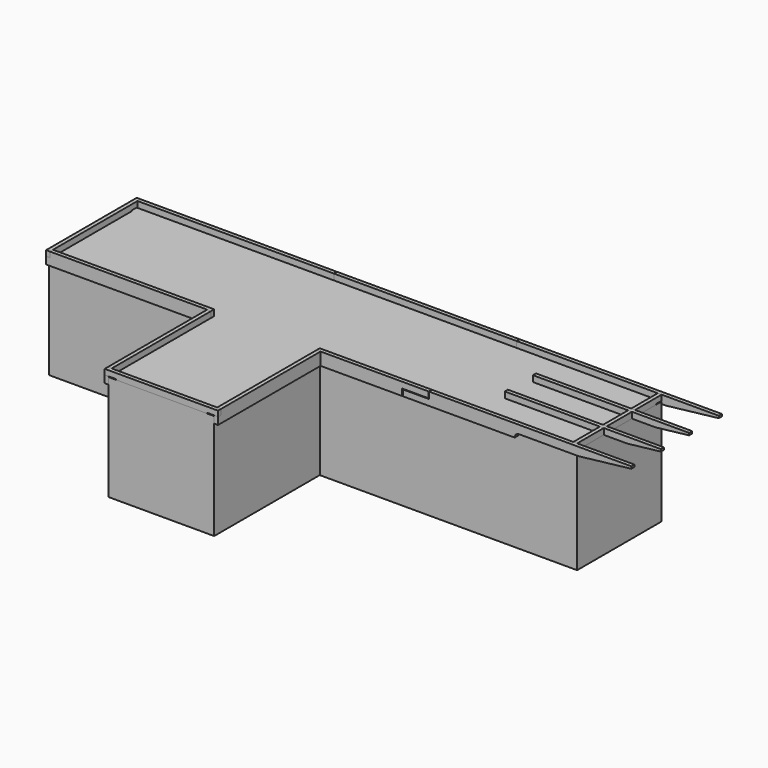
from build123d import *

# Parameters (mm, degrees)
F0_W       = 2438.4
F0_H       = 3048
F1_DEPTH   = 2438.4
F2_W       = 1066.8
F2_H       = 139.7
F3_DEPTH   = 88.9
F2_W_2     = 2590.8
F2_W_3     = 1625.6
F4_DEPTH   = 88.9
F5_DEPTH   = 88.9
F6_W       = 2590.8
F6_H       = 139.7
F7_DEPTH   = 88.9
F8_DEPTH   = 88.9
F11_DEPTH  = 44.45
F13_DEPTH  = 88.9
F14_W      = 2959.1
F14_H      = 152.4
F15_DEPTH  = 88.9
F19_DEPTH  = 88.9
F22_DEPTH  = 88.9
F24_W      = 723.9
F24_H      = 139.7
F25_DEPTH  = 88.9
F26_SIZE   = 6.35
F26_2_SIZE = 6.35
F26_3_SIZE = 6.35
F27_SIZE   = 6.35
F27_2_SIZE = 6.35


with BuildPart() as f1:
    # F0 (on Top) → F1 (new body)
    with BuildSketch(Plane.XY):
        Polygon((6096, 1219.2), (-6096, 1219.2), (-6096, -1219.2), (-2286, -1219.2), (152.4, -1219.2), (6096, -1219.2), align=None)
        with Locations((-1066.8, -2743.2)):
            Rectangle(F0_W, F0_H)
    extrude(amount=F1_DEPTH)


with BuildPart() as f3:
    # F2 (on face) → F3 (new body)
    with BuildSketch(Plane(origin=(0, 1219.2, 0), x_dir=(-1, 0, 0), z_dir=(0, 1, 0))):
        Polygon((-3810, 2578.1), (-7416.8, 2578.1), (-7416.8, 2527.3), (-6640.9454545455, 2438.4), (-6096, 2438.4), (-3810, 2438.4), align=None)
        with Locations((-3276.6, 2508.25)):
            Rectangle(F2_W, F2_H)
        with BuildLine():
            Line((-2743.2, 2438.4), (-3810, 2438.4))
            Line((-3810, 2438.4), (-6096, 2438.4))
            Line((-6096, 2438.4), (-6096, 2387.6))
            Line((-6096, 2387.6), (-4826, 2387.6))
            ThreePointArc((-4826, 2387.6), (-4754.1579510314, 2357.8420489686), (-4724.4, 2286))
            Line((-4724.4, 2286), (-2133.6, 2286))
            Line((-2133.6, 2286), (-2133.6, 2432.05))
            Line((-2133.6, 2432.05), (-2743.2, 2432.05))
            Line((-2743.2, 2432.05), (-2743.2, 2438.4))
        make_face()
        Polygon((-3810, 2578.1), (-7416.8, 2578.1), (-7416.8, 2527.3), (-6640.9454545455, 2438.4), (-6096, 2438.4), (-3810, 2438.4), align=None)
        Polygon((-6096, 2438.4), (-6640.9454545455, 2438.4), (-6197.6, 2387.6), (-6096, 2387.6), align=None)
    extrude(amount=F3_DEPTH)


with BuildPart() as f4:
    # F2 (on face) → F4 (new body)
    with BuildSketch(Plane(origin=(0, 1219.2, 0), x_dir=(-1, 0, 0), z_dir=(0, 1, 0))):
        with Locations((-1447.8, 2508.25)):
            Rectangle(F2_W_2, F2_H)
        with Locations((660.4, 2508.25)):
            Rectangle(F2_W_3, F2_H)
        Polygon((1473.2, 2438.4), (-152.4, 2438.4), (-152.4, 2286), (2082.8, 2286), (2082.8, 2432.05), (1473.2, 2432.05), align=None)
        Polygon((-152.4, 2438.4), (-2743.2, 2438.4), (-2743.2, 2432.05), (-2133.6, 2432.05), (-2133.6, 2286), (-152.4, 2286), align=None)
    extrude(amount=F4_DEPTH)

    # F27#2
    f27_2_edges = [f4.edges().sort_by_distance(p)[0] for p in [
        (2743.2, 1308.1, 2505.075),
        (2743.2, 1263.65, 2578.1),
        (2438.4, 1308.1, 2432.05),
        (2133.6, 1308.1, 2359.025),
        (2133.6, 1263.65, 2286),
        (-1473.2, 1263.65, 2578.1),
        (-1473.2, 1308.1, 2505.075),
        (-1778, 1308.1, 2432.05),
        (-2082.8, 1308.1, 2359.025),
        (-2082.8, 1263.65, 2286),
    ]]
    chamfer(f27_2_edges, length=F27_2_SIZE)


with BuildPart() as f5:
    # F2 (on face) → F5 (new body)
    with BuildSketch(Plane(origin=(0, 1219.2, 0), x_dir=(-1, 0, 0), z_dir=(0, 1, 0))):
        Polygon((6007.1, 2578.1), (1473.2, 2578.1), (1473.2, 2438.4), (6096, 2438.4), (6096, 2454.275), (6007.1, 2454.275), align=None)
        Polygon((6096, 2438.4), (1473.2, 2438.4), (1473.2, 2432.05), (2082.8, 2432.05), (2082.8, 2286), (6096, 2286), align=None)
    extrude(amount=F5_DEPTH)

    # F26#2
    f26_2_edges = [f5.edges().sort_by_distance(p)[0] for p in [
        (-1473.2, 1263.65, 2578.1),
        (-1473.2, 1308.1, 2505.075),
        (-1778, 1308.1, 2432.05),
        (-2082.8, 1308.1, 2359.025),
        (-2082.8, 1263.65, 2286),
    ]]
    chamfer(f26_2_edges, length=F26_2_SIZE)


with BuildPart() as f7:
    # F6 (on face) → F7 (new body)
    with BuildSketch(Plane.XZ.offset(1219.2)):
        with Locations((1447.8, 2508.25)):
            Rectangle(F6_W, F6_H)
        Polygon((2743.2, 2432.05), (2743.2, 2438.4), (152.4, 2438.4), (152.4, 2286), (2133.6, 2286), (2133.6, 2432.05), align=None)
    extrude(amount=F7_DEPTH)

    # F26#3
    f26_3_edges = [f7.edges().sort_by_distance(p)[0] for p in [
        (2133.6, -1308.1, 2359.025),
        (2438.4, -1308.1, 2432.05),
        (2743.2, -1308.1, 2505.075),
        (2743.2, -1263.65, 2578.1),
        (2133.6, -1263.65, 2286),
    ]]
    chamfer(f26_3_edges, length=F26_3_SIZE)


with BuildPart() as f8:
    # F6 (on face) → F8 (new body)
    with BuildSketch(Plane.XZ.offset(1219.2)):
        Polygon((-2286, 2286), (-2286, 2578.1), (-6007.1, 2578.1), (-6007.1, 2454.275), (-6096, 2454.275), (-6096, 2286), align=None)
    extrude(amount=F8_DEPTH)


with BuildPart() as f11:
    # F10 (on offset) → F11 (new body, symmetric)
    with BuildSketch(Plane(origin=(0, 406.4, 0), x_dir=(-1, 0, 0), z_dir=(0, 1, 0))):
        Polygon((-3810, 2578.1), (-7416.8, 2578.1), (-7416.8, 2527.3), (-6640.9454545455, 2438.4), (-3810, 2438.4), align=None)
    extrude(amount=F11_DEPTH, both=True)


with BuildPart() as f13:
    # F12 (on face) → F13 (new body)
    with BuildSketch(Plane(origin=(-6096, 0, 0), x_dir=(0, -1, 0), z_dir=(-1, 0, 0))):
        Polygon((1308.1, 2578.1), (-1308.1, 2578.1), (-1308.1, 2454.275), (-1050.925, 2454.275), (-1050.925, 2438.4), (1050.925, 2438.4), (1050.925, 2454.275), (1308.1, 2454.275), align=None)
    extrude(amount=-F13_DEPTH)


with BuildPart() as f15:
    # F14 (on face) → F15 (new body)
    with BuildSketch(Plane(origin=(-2286, 0, 0), x_dir=(0, -1, 0), z_dir=(-1, 0, 0))):
        Polygon((4178.3, 2578.1), (1308.1, 2578.1), (1308.1, 2438.4), (4267.2, 2438.4), (4267.2, 2454.275), (4178.3, 2454.275), align=None)
        with Locations((2787.65, 2362.2)):
            Rectangle(F14_W, F14_H)
    extrude(amount=F15_DEPTH)


with BuildPart() as f17_1:
    # F17: instance of F15
    add(f15.part.mirror(Plane(origin=(-1066.8, -2743.2, 1219.2), x_dir=(0, -1, 0), z_dir=(-1, 0, 0))))


with BuildPart() as f19:
    # F18 (on face) → F19 (new body)
    with BuildSketch(Plane.XZ.offset(4267.2)):
        Polygon((241.3, 2578.1), (-2374.9, 2578.1), (-2374.9, 2454.275), (-2117.725, 2454.275), (-2117.725, 2438.4), (-15.875, 2438.4), (-15.875, 2454.275), (241.3, 2454.275), align=None)
    extrude(amount=-F19_DEPTH)


with BuildPart() as f22:
    # F21 (on face) → F22 (new body)
    with BuildSketch(Plane.YZ.offset(6096)):
        Polygon((1219.2, 2454.275), (1219.2, 2578.1), (450.85, 2578.1), (450.85, 2438.4), (1050.925, 2438.4), (1050.925, 2454.275), align=None)
    extrude(amount=-F22_DEPTH)


with BuildPart() as f23_1:
    # F23: instance of F3
    add(f3.part.mirror(Plane(origin=(1562.1, 0, 609.6), x_dir=(1, 0, 0), z_dir=(0, -1, 0))))

    # F27
    f27_edges = [f23_1.edges().sort_by_distance(p)[0] for p in [
        (2743.2, -1308.1, 2505.075),
        (2438.4, -1308.1, 2432.05),
        (2743.2, -1263.65, 2578.1),
        (2133.6, -1308.1, 2359.025),
        (2133.6, -1263.65, 2286),
    ]]
    chamfer(f27_edges, length=F27_SIZE)


with BuildPart() as f23_2:
    # F23: instance of F22
    add(f22.part.mirror(Plane(origin=(1562.1, 0, 609.6), x_dir=(1, 0, 0), z_dir=(0, -1, 0))))


with BuildPart() as f23_3:
    # F23: instance of F11
    add(f11.part.mirror(Plane(origin=(1562.1, 0, 609.6), x_dir=(1, 0, 0), z_dir=(0, -1, 0))))


with BuildPart() as f25:
    # F24 (on face) → F25 (new body)
    with BuildSketch(Plane.YZ.offset(6096)):
        with Locations((0, 2508.25)):
            Rectangle(F24_W, F24_H)
    extrude(amount=-F25_DEPTH)


with BuildPart() as f3_1:
    add(f3.part)

    # F26
    f26_edges = [f3_1.edges().sort_by_distance(p)[0] for p in [
        (2743.2, 1263.65, 2578.1),
        (2743.2, 1308.1, 2505.075),
        (2438.4, 1308.1, 2432.05),
        (2133.6, 1308.1, 2359.025),
        (2133.6, 1263.65, 2286),
    ]]
    chamfer(f26_edges, length=F26_SIZE)


solid = Compound([f1.part, f4.part, f5.part, f7.part, f8.part, f11.part, f13.part, f15.part, f17_1.part, f19.part, f22.part, f23_1.part, f23_2.part, f23_3.part, f25.part, f3_1.part])
